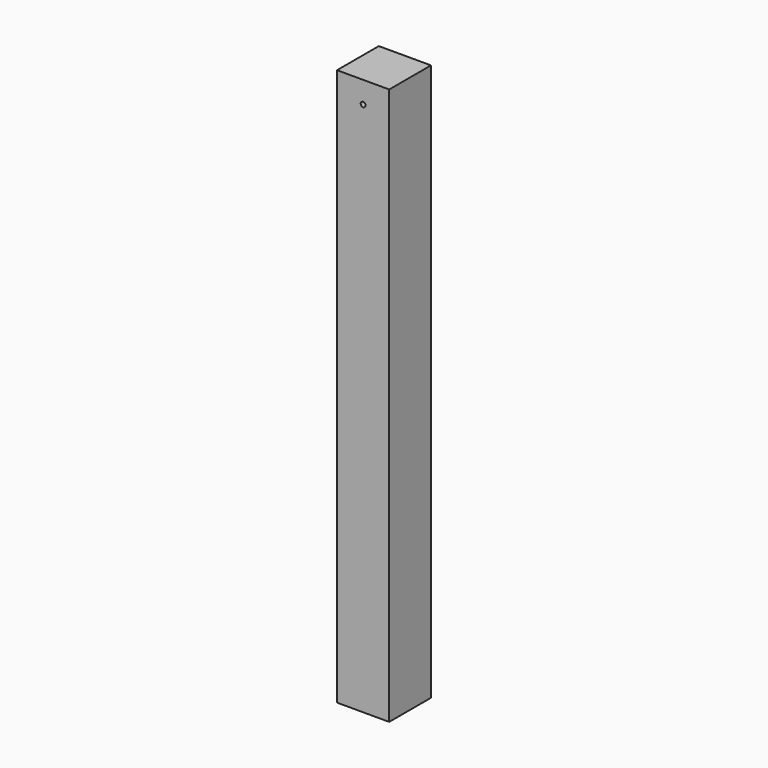
from build123d import *

# Parameters (mm, degrees)
F0_W     = 38.1
F0_H     = 38.1
F1_DEPTH = 406.4
F2_R     = 1.7526
F3_DEPTH = 19.05


with BuildPart() as f1:
    # F0 (on Top) → F1 (new body)
    with BuildSketch(Plane.XY):
        Rectangle(F0_W, F0_H)
    extrude(amount=F1_DEPTH)

    # F2 (on face) → F3 (cut)
    with BuildSketch(Plane.XZ.offset(19.05)):
        with Locations((0, 390.525)):
            Circle(F2_R)
    extrude(amount=-F3_DEPTH, mode=Mode.SUBTRACT)


solid = f1.part
